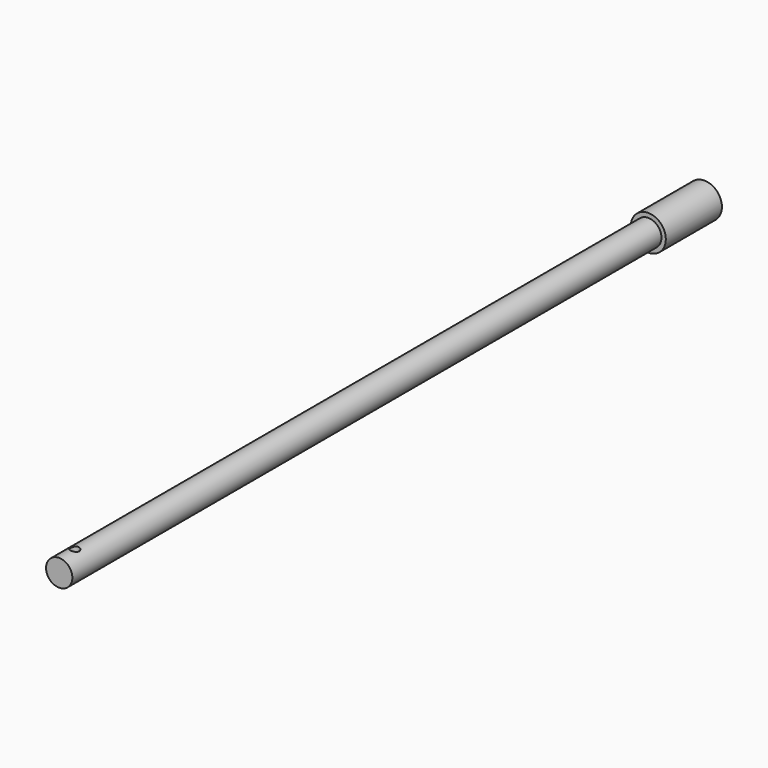
from build123d import *

# Parameters (mm, degrees)
F0_R     = 3.175
F0_R_2   = 2.38125
F1_DEPTH = 12.7
F2_DEPTH = 146.05
F3_R     = 0.79375
F4_DEPTH = 3.175


with BuildPart() as f1:
    # F0 (on Front) → F1 (new body)
    with BuildSketch(Plane.XZ):
        Circle(F0_R)
        Circle(F0_R_2, mode=Mode.SUBTRACT)
    extrude(amount=F1_DEPTH)

    # F0 (on Front) → F2 (join)
    with BuildSketch(Plane.XZ):
        Circle(F0_R_2)
    extrude(amount=F2_DEPTH)

    # F3 (on Top) → F4 (cut, symmetric)
    with BuildSketch(Plane.XY):
        with Locations((0, -142.5194)):
            Circle(F3_R)
    extrude(amount=F4_DEPTH, both=True, mode=Mode.SUBTRACT)


solid = f1.part
